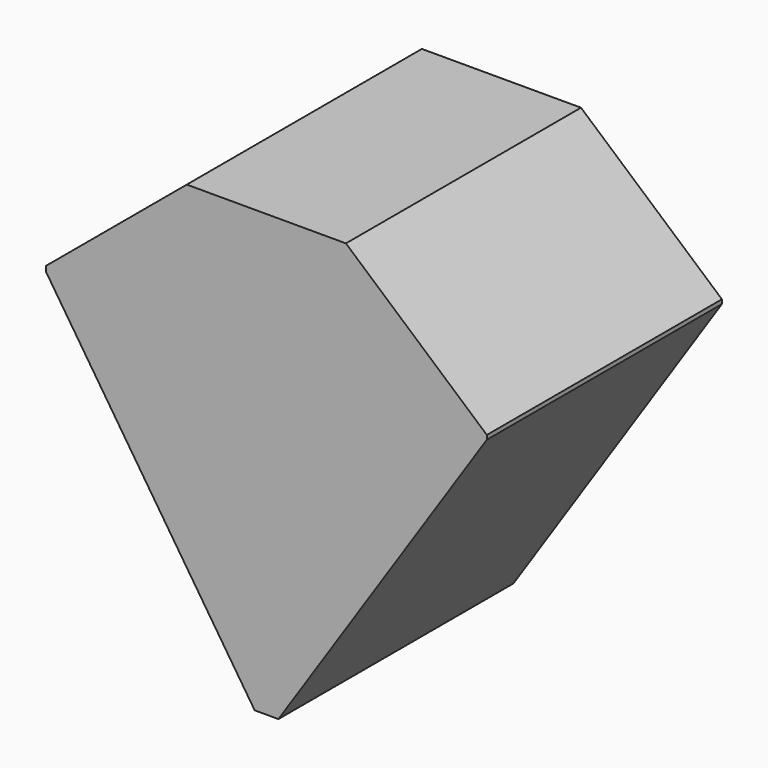
from build123d import *

# Parameters (mm, degrees)
F0_W     = 38.1
F0_H     = 38.1
F1_DEPTH = 25.4
F3_DEPTH = 25.401


with BuildPart() as f1:
    # F0 (on Front) → F1 (new body)
    with BuildSketch(Plane.XZ):
        Rectangle(F0_W, F0_H)
    extrude(amount=F1_DEPTH)

    # F2 (on Front) → F3 (cut, through all)
    with BuildSketch(Plane.XZ):
        Polygon((6.466975, 19.400921), (19.202406, 8.300444), (28.725397, 0), (24.51434, 32.93645), align=None)
        Polygon((19.202406, 8.300444), (0, -20.60408), (26.372609, -38.124435), align=None)
        Polygon((0, -20.60408), (-19.248062, 8.750015), (-33.237237, -26.61987), align=None)
        Polygon((-19.248062, 8.750015), (-6.466975, 19.400921), (-27.522236, 26.920658), align=None)
    extrude(amount=F3_DEPTH, mode=Mode.SUBTRACT)


solid = f1.part
